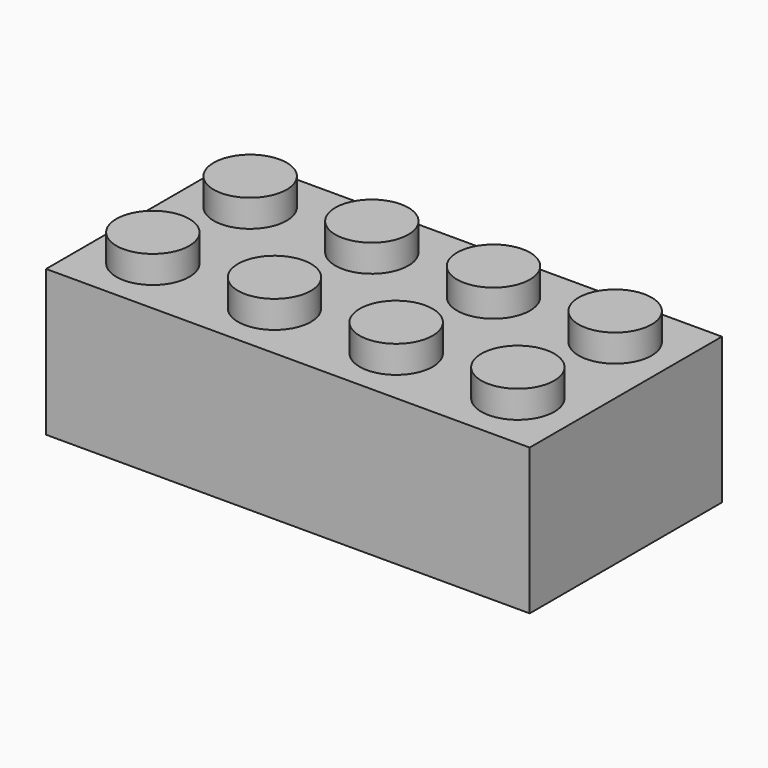
from build123d import *

# Parameters (mm, degrees)
F0_W     = 807.72
F0_H     = 401.32
F1_DEPTH = 243.84
F2_R     = 60.96
F3_DEPTH = 45.72
F4_W     = 746.76
F4_H     = 340.36
F5_DEPTH = 213.36
F6_R     = 82.55
F7_DEPTH = 213.36
F8_R     = 60.96
F9_DEPTH = 213.36


with BuildPart() as f1:
    # F0 (on Top) → F1 (new body)
    with BuildSketch(Plane.XY):
        with Locations((-2.96575, -3.995618)):
            Rectangle(F0_W, F0_H)
    extrude(amount=F1_DEPTH)

    # F2 (on face) → F3 (join)
    with BuildSketch(Plane.XY.offset(243.84)):
        with Locations((-307.76575, 97.604382)):
            Circle(F2_R)
        with Locations((-307.76575, -105.595618)):
            Circle(F2_R)
        with Locations((-104.56575, -105.595618)):
            Circle(F2_R)
        with Locations((-104.56575, 97.604382)):
            Circle(F2_R)
        with Locations((98.63425, 97.604382)):
            Circle(F2_R)
        with Locations((98.63425, -105.595618)):
            Circle(F2_R)
        with Locations((301.83425, -105.595618)):
            Circle(F2_R)
        with Locations((301.83425, 97.604382)):
            Circle(F2_R)
    extrude(amount=F3_DEPTH)

    # F4 (on face) → F5 (cut)
    with BuildSketch(Plane(origin=(0, 0, 0), x_dir=(1, 0, 0), z_dir=(0, 0, -1))):
        with Locations((-1.99458, 3.995618)):
            Rectangle(F4_W, F4_H)
    extrude(amount=-F5_DEPTH, mode=Mode.SUBTRACT)

    # F6 (on face) → F7 (join)
    with BuildSketch(Plane(origin=(0, 0, 213.36), x_dir=(1, 0, 0), z_dir=(0, 0, -1))):
        with Locations((-206.16575, 3.995618)):
            Circle(F6_R)
        with Locations((-2.96575, 3.995618)):
            Circle(F6_R)
        with Locations((200.23425, 3.995618)):
            Circle(F6_R)
    extrude(amount=F7_DEPTH)

    # F8 (on face) → F9 (cut)
    with BuildSketch(Plane(origin=(0, 0, 0), x_dir=(1, 0, 0), z_dir=(0, 0, -1))):
        with Locations((-206.16575, 3.995618)):
            Circle(F8_R)
        with Locations((-2.96575, 3.995618)):
            Circle(F8_R)
        with Locations((200.23425, 3.995618)):
            Circle(F8_R)
    extrude(amount=-F9_DEPTH, mode=Mode.SUBTRACT)


solid = f1.part
